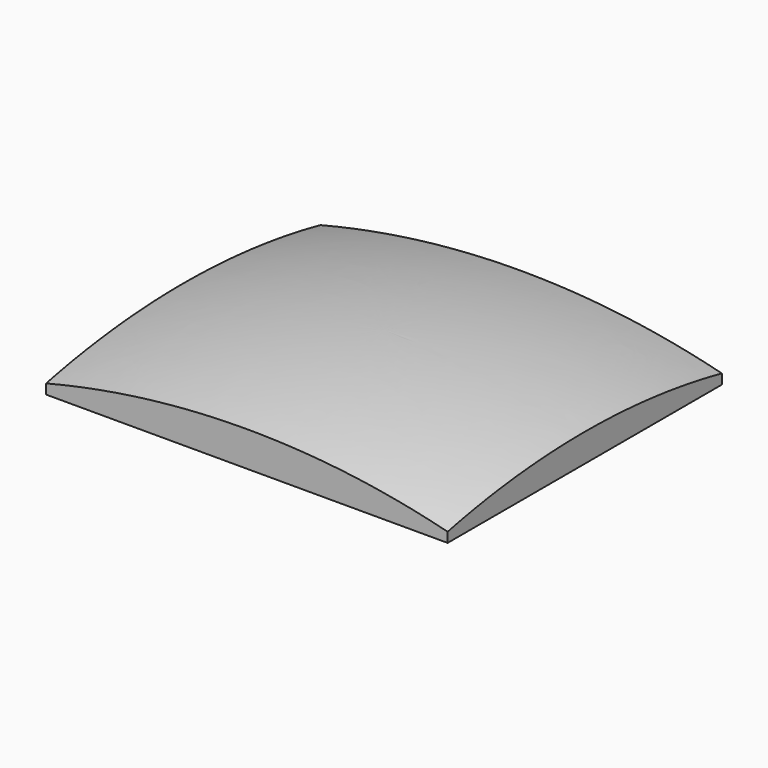
from build123d import *

# Parameters (mm, degrees)
F2_W     = 152.519568
F2_H     = 130.232782
F3_DEPTH = 36.1


with BuildPart() as f1:
    # F0 (on Front) → F1 (revolve)
    with BuildSketch(Plane.XZ):
        with BuildLine():
            Line((0, 20), (0, -40))
            Line((0, -40), (185.709767, -40))
            ThreePointArc((185.709767, -40), (97.580887, 4.627748), (0, 20))
        make_face()
    revolve(axis=Axis((0, 0, -10), (0, 0, 1)))


with BuildPart() as f3:
    # F2 (on Top) → F3 (new body)
    with BuildSketch(Plane.XY):
        Rectangle(F2_W, F2_H)
    extrude(amount=F3_DEPTH)


with BuildPart() as f1_1:
    add(f1.part)

    # F4: intersect F3
    add(f3.part, mode=Mode.INTERSECT)


solid = f1_1.part
